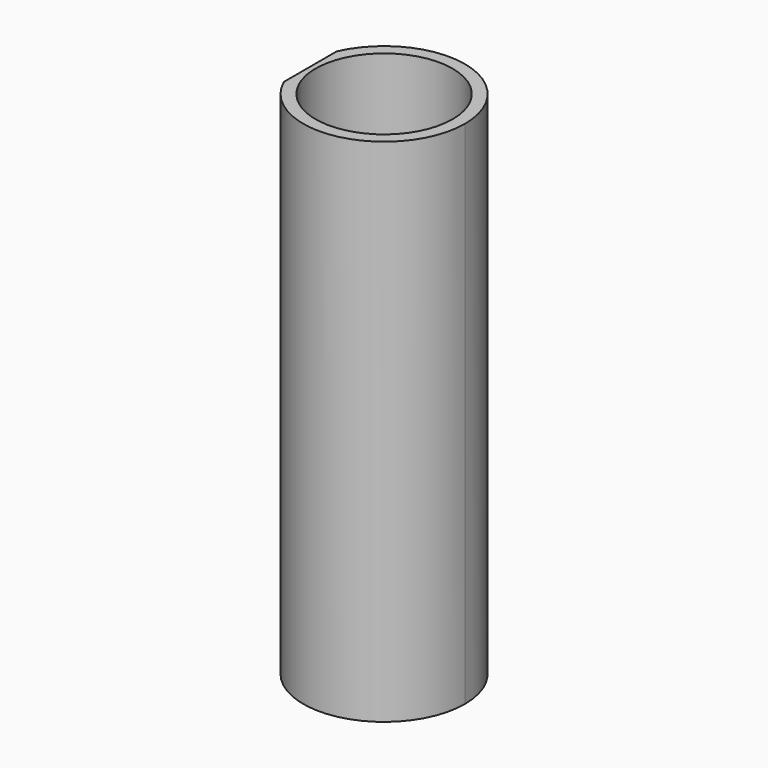
from build123d import *

# Parameters (mm, degrees)
F0_R     = 20.447
F1_DEPTH = 152.4
F3_DEPTH = 25.4


with BuildPart() as f1:
    # F0 (on Top) → F1 (new body)
    with BuildSketch(Plane.XY):
        with BuildLine():
            ThreePointArc((-22.026697, -9.852995), (5.037494, -23.598317), (24.13, 0))
            ThreePointArc((24.13, 0), (5.037494, 23.598317), (-22.026697, 9.852995))
            Line((-22.026697, 9.852995), (-22.026697, -9.852995))
        make_face()
        Circle(F0_R, mode=Mode.SUBTRACT)
    extrude(amount=F1_DEPTH)

    # F2 (on face) → F3 (cut)
    with BuildSketch(Plane(origin=(-22.026697, 0, 0), x_dir=(0, -1, 0), z_dir=(-1, 0, 0))):
        with BuildLine():
            ThreePointArc((3.175, 16.007065), (-2.245064, 18.252129), (0, 12.832065))
            ThreePointArc((0, 12.832065), (2.245064, 13.762001), (3.175, 16.007065))
        make_face()
        with BuildLine():
            ThreePointArc((0, 9.657065), (-2.245064, 4.237001), (3.175, 6.482065))
            ThreePointArc((3.175, 6.482065), (2.245064, 8.727129), (0, 9.657065))
        make_face()
    extrude(amount=-F3_DEPTH, mode=Mode.SUBTRACT)


solid = f1.part
